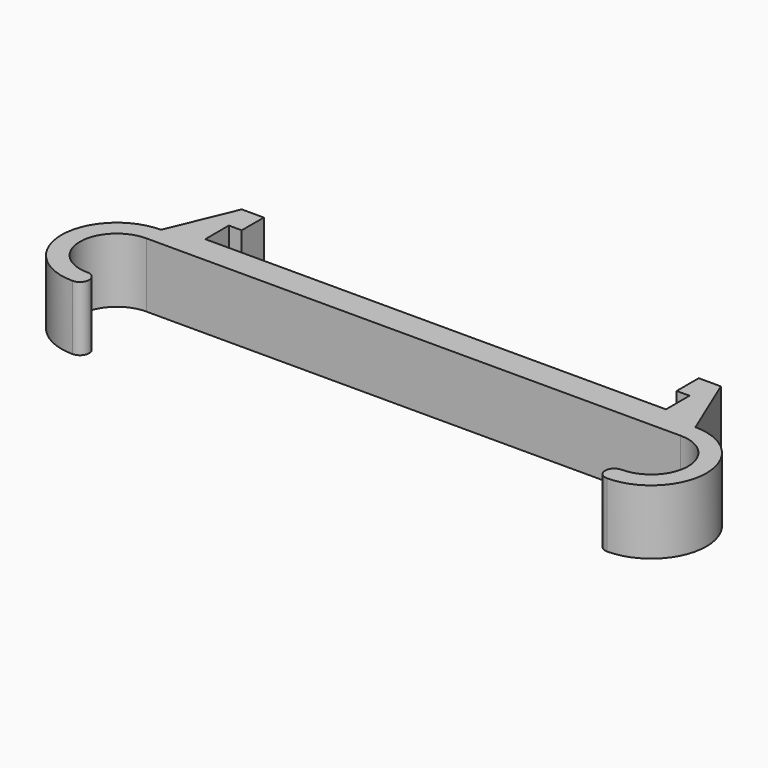
from build123d import *

# Parameters (mm, degrees)
F1_DEPTH = 7
F2_DEPTH = 1


with BuildPart() as f1:
    # F0 (on Top) → F1 (new body)
    with BuildSketch(Plane.XY):
        with BuildLine():
            Line((23.6, 8.733252), (23.6, 5.733252))
            Line((23.6, 5.733252), (29, 5.733252))
            ThreePointArc((29, 5.733252), (33, 1.733252), (29, -2.266748))
            ThreePointArc((29, -2.266748), (28, -3.266748), (29, -4.266748))
            ThreePointArc((29, -4.266748), (35, 1.733252), (29, 7.733252))
            Line((29, 7.733252), (26, 14.933252))
            Line((26, 14.933252), (23.6, 14.933252))
            Line((23.6, 14.933252), (23.6, 11.933252))
            Line((23.6, 11.933252), (25, 11.933252))
            Line((25, 11.933252), (25, 8.733252))
            Line((25, 8.733252), (23.6, 8.733252))
        make_face()
        with BuildLine():
            Line((-29, 5.733252), (-23.6, 5.733252))
            Line((-23.6, 5.733252), (-23.6, 8.733252))
            Line((-23.6, 8.733252), (-25, 8.733252))
            Line((-25, 8.733252), (-25, 11.933252))
            Line((-25, 11.933252), (-23.6, 11.933252))
            Line((-23.6, 11.933252), (-23.6, 14.933252))
            Line((-23.6, 14.933252), (-26, 14.933252))
            Line((-26, 14.933252), (-29, 7.733252))
            ThreePointArc((-29, 7.733252), (-35, 1.733252), (-29, -4.266748))
            ThreePointArc((-29, -4.266748), (-28, -3.266748), (-29, -2.266748))
            ThreePointArc((-29, -2.266748), (-33, 1.733252), (-29, 5.733252))
        make_face()
        with BuildLine():
            Line((-29, 5.733252), (-23.6, 5.733252))
            Line((-23.6, 5.733252), (-23.6, 8.733252))
            Line((-23.6, 8.733252), (-25, 8.733252))
            Line((-25, 8.733252), (-25, 11.933252))
            Line((-25, 11.933252), (-23.6, 11.933252))
            Line((-23.6, 11.933252), (-23.6, 14.933252))
            Line((-23.6, 14.933252), (-26, 14.933252))
            Line((-26, 14.933252), (-29, 7.733252))
            ThreePointArc((-29, 7.733252), (-35, 1.733252), (-29, -4.266748))
            ThreePointArc((-29, -4.266748), (-28, -3.266748), (-29, -2.266748))
            ThreePointArc((-29, -2.266748), (-33, 1.733252), (-29, 5.733252))
        make_face()
        Polygon((-23.6, 5.733252), (0, 5.733252), (23.6, 5.733252), (23.6, 8.733252), (0, 8.733252), (-23.6, 8.733252), align=None)
    extrude(amount=F1_DEPTH)

    # F0 (on Top) → F2 (join)
    with BuildSketch(Plane.XY):
        Polygon((-25, 8.733252), (-23.6, 8.733252), (0, 8.733252), (23.6, 8.733252), (25, 8.733252), (25, 11.933252), (23.6, 11.933252), (0, 11.933252), (-23.6, 11.933252), (-25, 11.933252), align=None)
        Polygon((-23.6, 14.933252), (-23.6, 11.933252), (0, 11.933252), (23.6, 11.933252), (23.6, 14.933252), (0, 14.933252), align=None)
    extrude(amount=F2_DEPTH)


solid = f1.part
